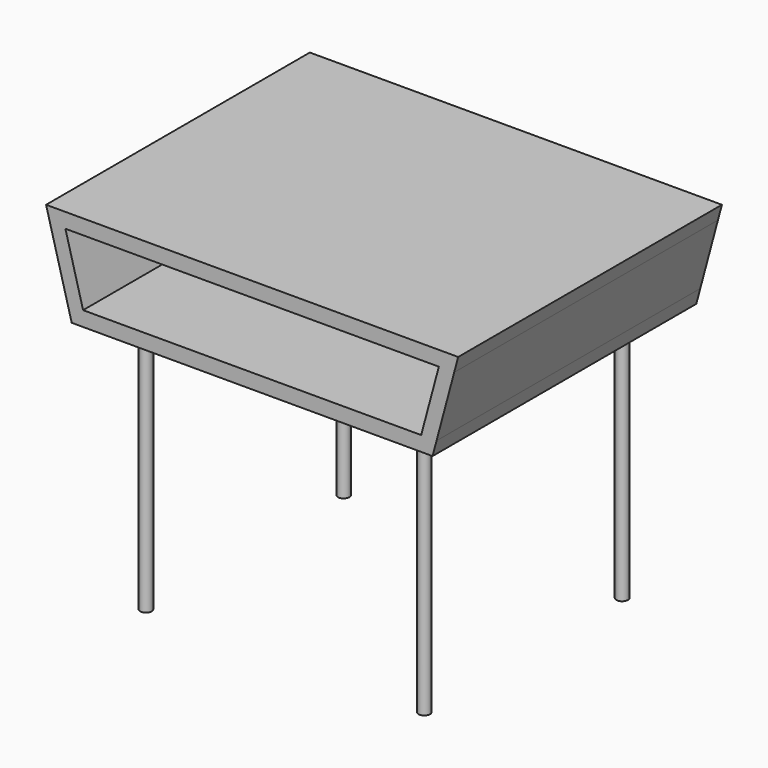
from build123d import *

# Parameters (mm, degrees)
F1_DEPTH = 400
F2_R     = 7
F3_DEPTH = 310


with BuildPart() as f1:
    # F0 (on Front) → F1 (new body)
    with BuildSketch(Plane.XZ):
        Polygon((-250, 116), (-245.176915, 98), (-226.541943, 98), (226.541943, 98), (245.176915, 98), (250, 116), align=None)
        Polygon((-245.176915, 98), (-223.740979, 18), (-205.106008, 18), (-226.541943, 98), align=None)
        Polygon((-223.740979, 18), (-218.917894, 0), (218.917894, 0), (223.740979, 18), (205.106008, 18), (-205.106008, 18), align=None)
        Polygon((205.106008, 18), (223.740979, 18), (245.176915, 98), (226.541943, 98), align=None)
    extrude(amount=F1_DEPTH)


with BuildPart() as f3:
    # F2 (on face) → F3 (new body)
    with BuildSketch(Plane(origin=(0, 0, 0), x_dir=(1, 0, 0), z_dir=(0, 0, -1))):
        with Locations((-168.917894, 50)):
            Circle(F2_R)
        with Locations((-168.917894, 350)):
            Circle(F2_R)
        with Locations((168.917894, 50)):
            Circle(F2_R)
        with Locations((168.917894, 350)):
            Circle(F2_R)
    extrude(amount=F3_DEPTH)


solid = Compound([f1.part, f3.part])
